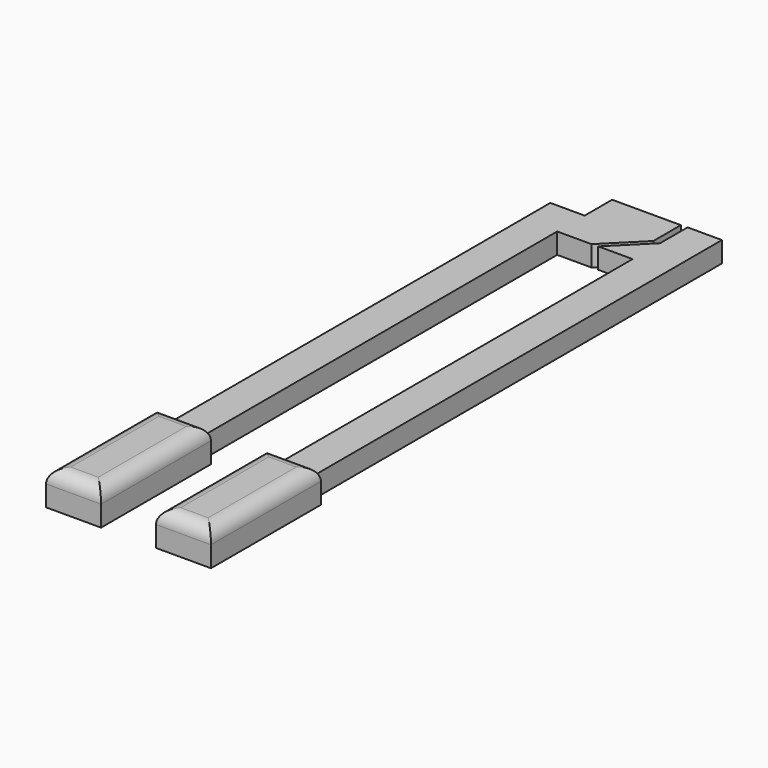
from build123d import *

# Parameters (mm, degrees)
BOX002_W                  = 0.5
BOX002_H                  = 0.8
BOX002_DEPTH              = 2
FILLET001_R               = 0.2
FILLET001_PITCH_ANGLE     = -90
FILLET001_PLACEMENT_ANGLE = -90
PAD003_DEPTH              = 0.3
PAD002_DEPTH              = 0.3
FUSION001_PITCH_ANGLE     = -90
FUSION001_PLACEMENT_ANGLE = -90
BOX003_W                  = 0.5
BOX003_H                  = 0.8
BOX003_DEPTH              = 2
FILLET002_R               = 0.2
FILLET002_PITCH_ANGLE     = -90
FILLET002_PLACEMENT_ANGLE = -90


with BuildPart() as obj1:
    # Box002 → Box002 (new body)
    with BuildSketch(Plane(origin=(5.9, 1.6, -6), x_dir=(1, 0, 0), z_dir=(0, 0, 1))):
        with Locations((0.25, 0.4)):
            Rectangle(BOX002_W, BOX002_H)
    extrude(amount=BOX002_DEPTH)

    # Fillet001
    fillet001_edges = [obj1.edges().sort_by_distance(p)[0] for p in [
        (6.4, 1.6, -5),
        (6.4, 2, -4),
        (6.4, 2.4, -5),
        (6.4, 2, -6),
    ]]
    fillet(fillet001_edges, radius=FILLET001_R)


with BuildPart() as obj1_1:
    # Fillet001 pitch: moved
    add(obj1.part.rotate(Axis((0, 0, 0), (0, 1, 0)), FILLET001_PITCH_ANGLE))


with BuildPart() as obj1_2:
    # Fillet001 placement: moved
    add(obj1_1.part.moved(Location((-4, 109, -4.4))).rotate(Axis((-4, 109, -4.4), (0, 0, 1)), FILLET001_PLACEMENT_ANGLE))


with BuildPart() as obj2:
    # Sketch002 → Pad003 (new body)
    with BuildSketch(Plane.YZ):
        Polygon((8.053803, -5.518828), (8.053803, 2.981172), (8.553803, 2.981172), (8.553803, 3.481172), (9.553803, 3.481172), (9.553803, 2.981172), (9.053803, 2.481172), (8.553803, 2.481172), (8.553803, -5.518828), align=None)
    extrude(amount=PAD003_DEPTH)


with BuildPart() as fusion006:
    # Sketch001 → Pad002 (new body)
    with BuildSketch(Plane.YZ):
        Polygon((9.647847, -5.514197), (10.147847, -5.514197), (10.147847, 3.485803), (9.647847, 3.485803), (9.647847, 2.985803), (9.147847, 2.485803), (9.647847, 2.485803), align=None)
    extrude(amount=PAD002_DEPTH)

    # Fusion001: union obj2
    add(obj2.part)


with BuildPart() as fusion006_1:
    # Fusion001 pitch: moved
    add(fusion006.part.rotate(Axis((0, 0, 0), (0, 1, 0)), FUSION001_PITCH_ANGLE))


with BuildPart() as fusion006_2:
    # Fusion001 placement: moved
    add(fusion006_1.part.moved(Location((-10.3, 109, 1.5))).rotate(Axis((-10.3, 109, 1.5), (0, 0, 1)), FUSION001_PLACEMENT_ANGLE))

    # Fusion006: union obj1
    add(obj1_2.part)


with BuildPart() as led:
    # Box003 → Box003 (new body)
    with BuildSketch(Plane(origin=(5.9, 3.2, -6), x_dir=(1, 0, 0), z_dir=(0, 0, 1))):
        with Locations((0.25, 0.4)):
            Rectangle(BOX003_W, BOX003_H)
    extrude(amount=BOX003_DEPTH)

    # Fillet002
    fillet002_edges = [led.edges().sort_by_distance(p)[0] for p in [
        (6.4, 3.2, -5),
        (6.4, 3.6, -4),
        (6.4, 4, -5),
        (6.4, 3.6, -6),
    ]]
    fillet(fillet002_edges, radius=FILLET002_R)


with BuildPart() as led_1:
    # Fillet002 pitch: moved
    add(led.part.rotate(Axis((0, 0, 0), (0, 1, 0)), FILLET002_PITCH_ANGLE))


with BuildPart() as led_2:
    # Fillet002 placement: moved
    add(led_1.part.moved(Location((-4, 109, -4.4))).rotate(Axis((-4, 109, -4.4), (0, 0, 1)), FILLET002_PLACEMENT_ANGLE))

    # Fusion007: union Fusion006
    add(fusion006_2.part)


solid = led_2.part
